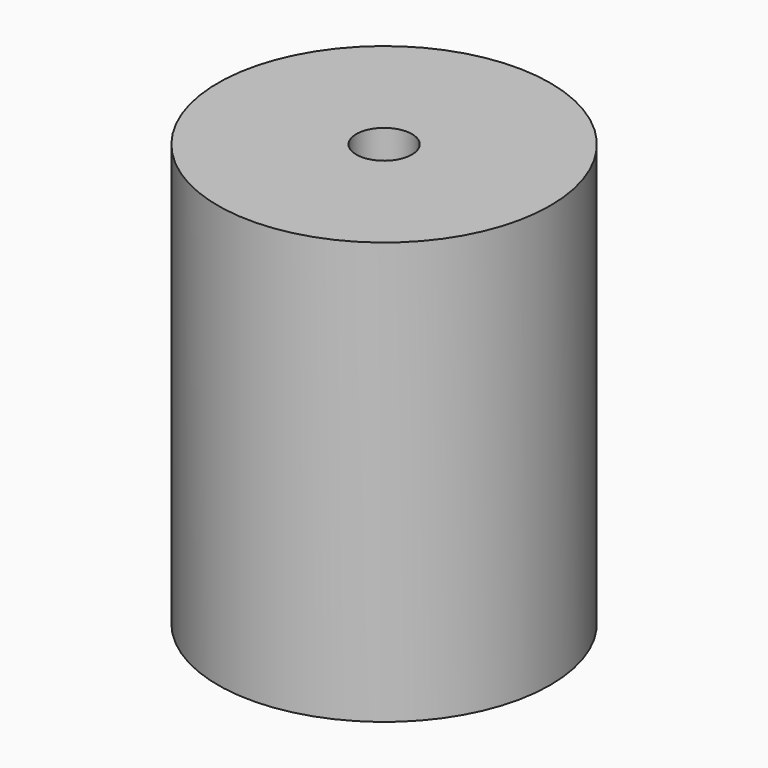
from build123d import *

# Parameters (mm, degrees)
F0_R     = 20
F0_R_2   = 3.35
F1_DEPTH = 50.8


with BuildPart() as f1:
    # F0 (on Top) → F1 (new body)
    with BuildSketch(Plane.XY):
        Circle(F0_R)
        Circle(F0_R_2, mode=Mode.SUBTRACT)
    extrude(amount=F1_DEPTH)

    # F2 (on Right) → F3 (revolve, cut)
    with BuildSketch(Plane.YZ):
        Polygon((0, 18.374391), (-19.769913, 0), (0, 0), align=None)
    revolve(axis=Axis((0, 0, 9.187195), (0, 0, -1)), mode=Mode.SUBTRACT)


solid = f1.part
